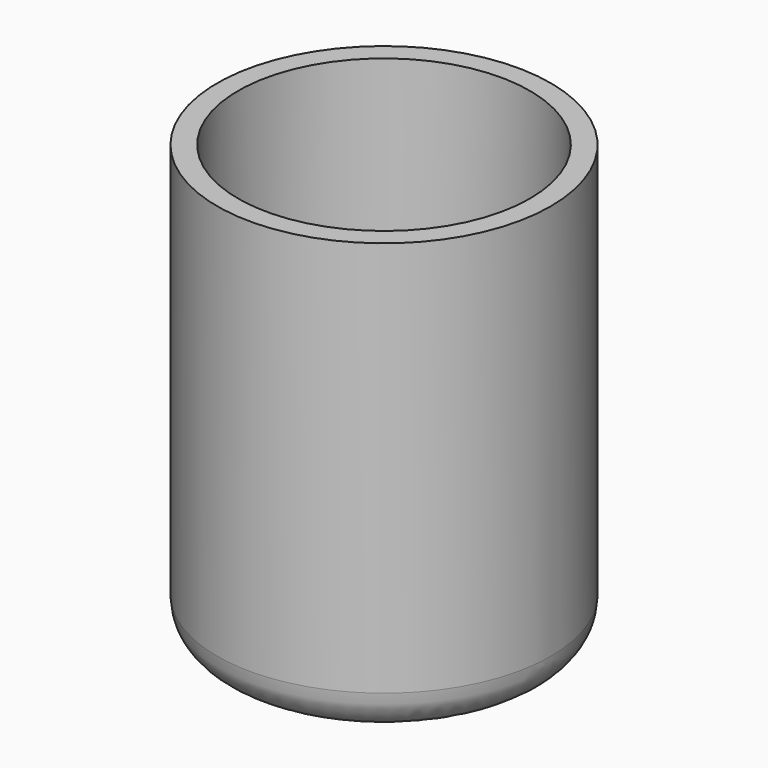
from build123d import *

# Parameters (mm, degrees)
F0_R     = 40
F0_R_2   = 35
F0_R_3   = 30
F1_DEPTH = 50
F2_DEPTH = 100
F3_DEPTH = 5
F4_R     = 10


with BuildPart() as f1:
    # F0 (on Top) → F1 (new body)
    with BuildSketch(Plane.XY):
        Circle(F0_R)
        Circle(F0_R_2, mode=Mode.SUBTRACT)
        Circle(F0_R_2)
        Circle(F0_R_3, mode=Mode.SUBTRACT)
    extrude(amount=F1_DEPTH)

    # F0 (on Top) → F2 (join)
    with BuildSketch(Plane.XY):
        Circle(F0_R)
        Circle(F0_R_2, mode=Mode.SUBTRACT)
    extrude(amount=F2_DEPTH)

    # F0 (on Top) → F3 (join)
    with BuildSketch(Plane.XY):
        Circle(F0_R)
        Circle(F0_R_2, mode=Mode.SUBTRACT)
        Circle(F0_R_2)
        Circle(F0_R_3, mode=Mode.SUBTRACT)
        Circle(F0_R_3)
    extrude(amount=-F3_DEPTH)

    # F4
    f4_edges = [f1.edges().sort_by_distance(p)[0] for p in [
        (-40, 0, -5),
    ]]
    fillet(f4_edges, radius=F4_R)


solid = f1.part
